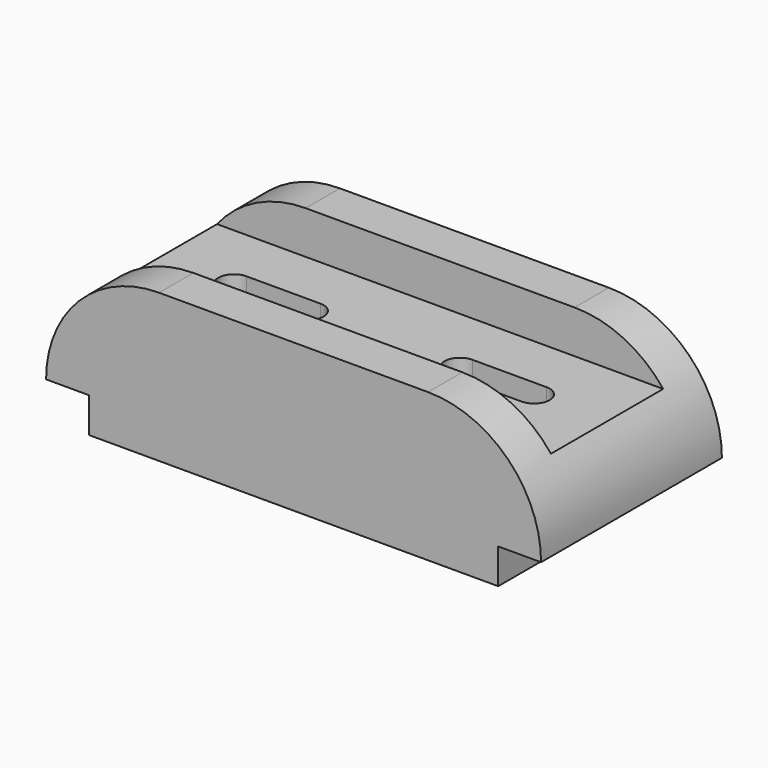
from build123d import *

# Parameters (mm, degrees)
F1_DEPTH = 58
F2_W     = 127
F2_H     = 36
F3_DEPTH = 11
F4_W     = 11
F4_H     = 9
F5_DEPTH = 58
F7_DEPTH = 58


with BuildPart() as f1:
    # F0 (on Front) → F1 (new body)
    with BuildSketch(Plane.XZ):
        with BuildLine():
            Line((0, 9), (0, 0))
            Line((0, 0), (127, 0))
            Line((127, 0), (127, 9))
            ThreePointArc((127, 9), (118.506097, 29.506097), (98, 38))
            Line((98, 38), (29, 38))
            ThreePointArc((29, 38), (8.493903, 29.506097), (0, 9))
        make_face()
    extrude(amount=-F1_DEPTH)

    # F2 (on face) → F3 (cut)
    with BuildSketch(Plane.XY.offset(38)):
        with Locations((63.5, 29)):
            Rectangle(F2_W, F2_H)
    extrude(amount=-F3_DEPTH, mode=Mode.SUBTRACT)

    # F4 (on face) → F5 (cut)
    with BuildSketch(Plane.XZ):
        with Locations((5.5, 4.5)):
            Rectangle(F4_W, F4_H)
        with Locations((121.5, 4.5)):
            Rectangle(F4_W, F4_H)
    extrude(amount=-F5_DEPTH, mode=Mode.SUBTRACT)

    # F6 (on face) → F7 (cut)
    with BuildSketch(Plane.XY.offset(38)):
        with BuildLine():
            Line((44, 33), (25, 33))
            ThreePointArc((25, 33), (21, 29), (25, 25))
            Line((25, 25), (44, 25))
            ThreePointArc((44, 25), (48, 29), (44, 33))
        make_face()
        with BuildLine():
            Line((102, 33), (83, 33))
            ThreePointArc((83, 33), (79, 29), (83, 25))
            Line((83, 25), (102, 25))
            ThreePointArc((102, 25), (106, 29), (102, 33))
        make_face()
    extrude(amount=-F7_DEPTH, mode=Mode.SUBTRACT)


solid = f1.part
